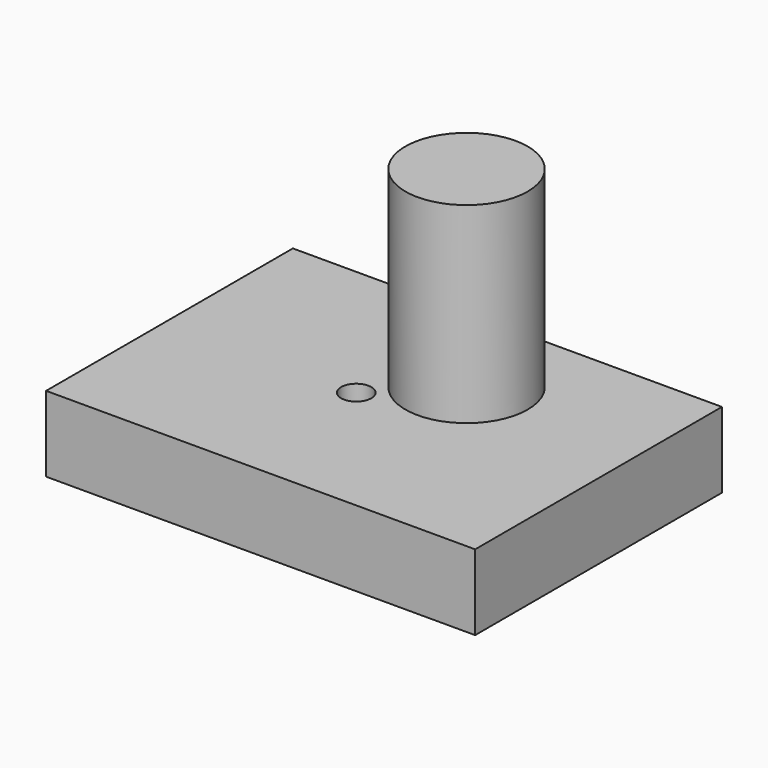
from build123d import *

# Parameters (mm, degrees)
F0_W     = 56.778665632
F0_H     = 40.8155359328
F1_DEPTH = 10
F3_D     = 4
F3_DEPTH = 5
F3_TIP   = 1.2017212381
F4_R     = 8.0897194279
F5_DEPTH = 25.4


with BuildPart() as f1:
    # F0 (on Top) → F1 (new body)
    with BuildSketch(Plane.XY):
        with Locations((28.389332816, 20.4077679664)):
            Rectangle(F0_W, F0_H)
    extrude(amount=F1_DEPTH)

    # F3
    with Locations(Plane.XY.offset(10)):
        with Locations((25.281002745, 19.7033435106)):
            Hole(F3_D / 2, depth=F3_DEPTH)
            with Locations((0, 0, -(F3_DEPTH + F3_TIP / 2))):  # 118° drill point
                Cone(0, F3_D / 2, F3_TIP, mode=Mode.SUBTRACT)

    # F4 (on face) → F5 (join)
    with BuildSketch(Plane.XY.offset(10)):
        with Locations((33.39304775, 27.8067756444)):
            Circle(F4_R)
    extrude(amount=F5_DEPTH)


solid = f1.part
